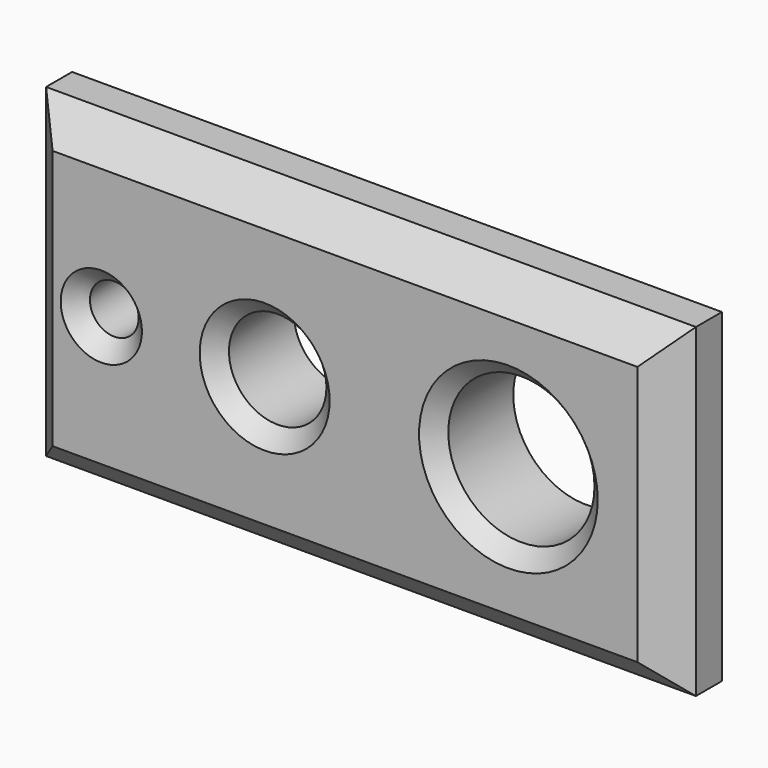
from build123d import *

# Parameters (mm, degrees)
F0_W     = 200
F0_H     = 100
F0_R     = 7.5
F0_R_2   = 15
F0_R_3   = 22.5
F1_DEPTH = 30
F2_SIZE2 = 5
F2_SIZE  = 5
F3_SIZE2 = 10
F3_SIZE  = 10


with BuildPart() as f1:
    # F0 (on Front) → F1 (new body)
    with BuildSketch(Plane.XZ):
        Rectangle(F0_W, F0_H)
        with Locations((-75, 0)):
            Circle(F0_R, mode=Mode.SUBTRACT)
        with Locations((-24.717584, 0)):
            Circle(F0_R_2, mode=Mode.SUBTRACT)
        with Locations((50.282416, 0)):
            Circle(F0_R_3, mode=Mode.SUBTRACT)
    extrude(amount=F1_DEPTH)

    # F2
    f2_edges = [f1.edges().sort_by_distance(p)[0] for p in [
        (-39.717584, -30, 0),
        (-82.5, -30, 0),
        (27.782416, -30, 0),
    ]]
    chamfer(f2_edges, length=F2_SIZE, length2=F2_SIZE2)

    # F3
    f3_edges = [f1.edges().sort_by_distance(p)[0] for p in [
        (0, -30, 50),
        (-100, -30, 0),
        (0, -30, -50),
        (100, -30, 0),
        (100, 0, 0),
        (0, 0, 50),
        (0, 0, -50),
        (-100, 0, 0),
    ]]
    chamfer(f3_edges, length=F3_SIZE, length2=F3_SIZE2)


solid = f1.part
